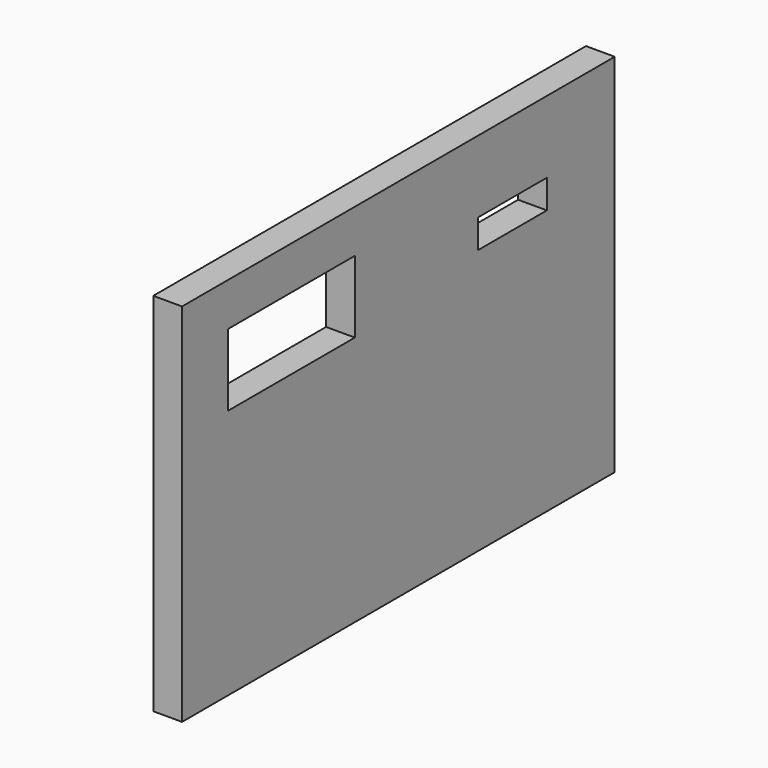
from build123d import *

# Parameters (mm, degrees)
F0_W     = 37.56
F0_H     = 25.4
F0_W_2   = 11
F0_H_2   = 5
F0_W_3   = 6
F0_H_3   = 2
F1_DEPTH = 2


with BuildPart() as f1:
    # F0 (on Right) → F1 (new body)
    with BuildSketch(Plane.YZ):
        with Locations((18.78, 12.7)):
            Rectangle(F0_W, F0_H)
        with Locations((9.5, 19.9)):
            Rectangle(F0_W_2, F0_H_2, mode=Mode.SUBTRACT)
        with Locations((28.67, 19.4)):
            Rectangle(F0_W_3, F0_H_3, mode=Mode.SUBTRACT)
    extrude(amount=F1_DEPTH)


solid = f1.part
